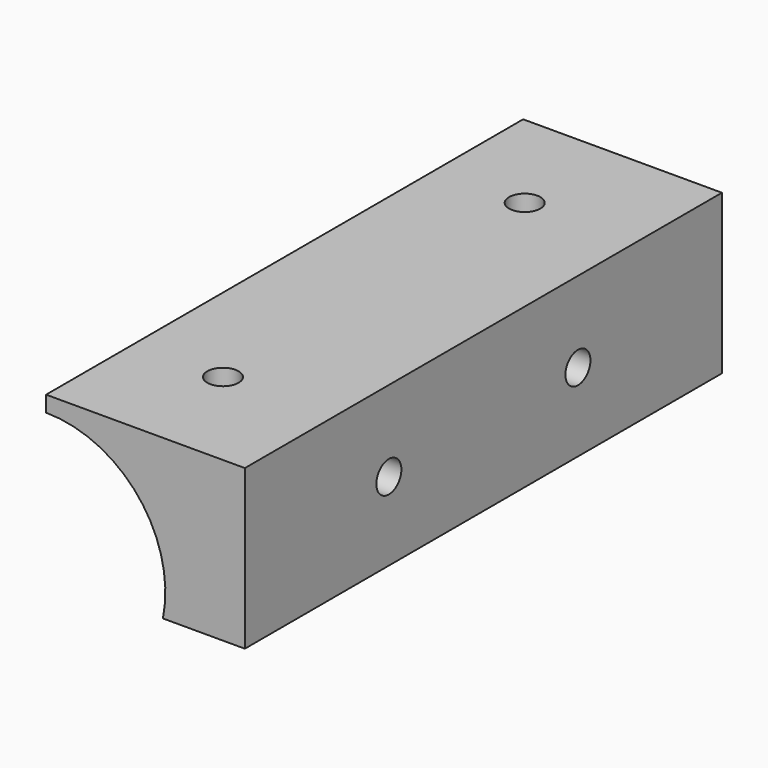
from build123d import *

# Parameters (mm, degrees)
F0_W     = 25.4
F0_H     = 20.32
F1_DEPTH = 76.2
F2_R     = 15.24
F3_DEPTH = 76.2
F4_R     = 2
F5_DEPTH = 25
F6_R     = 3
F7_DEPTH = 16.5
F8_R     = 2
F9_DEPTH = 25


with BuildPart() as f1:
    # F0 (on Front) → F1 (new body)
    with BuildSketch(Plane.XZ):
        with Locations((12.7, 10.16)):
            Rectangle(F0_W, F0_H)
    extrude(amount=F1_DEPTH)

    # F2 (on face) → F3 (cut)
    with BuildSketch(Plane.XZ.offset(76.2)):
        with Locations((0, 3.048)):
            Circle(F2_R)
    extrude(amount=-F3_DEPTH, mode=Mode.SUBTRACT)

    # F4 (on face) → F5 (cut)
    with BuildSketch(Plane.XY.offset(20.32)):
        with Locations((11.4, -14)):
            Circle(F4_R)
        with Locations((11.4, -62.2)):
            Circle(F4_R)
    extrude(amount=-F5_DEPTH, mode=Mode.SUBTRACT)

    # F6 (on Top) → F7 (cut)
    with BuildSketch(Plane.XY):
        with Locations((11.5, -14)):
            Circle(F6_R)
        with Locations((11.5, -62.20332)):
            Circle(F6_R)
    extrude(amount=F7_DEPTH, mode=Mode.SUBTRACT)

    # F8 (on face) → F9 (cut)
    with BuildSketch(Plane.YZ.offset(25.4)):
        with Locations((-23, 10)):
            Circle(F8_R)
        with Locations((-53.2, 10)):
            Circle(F8_R)
    extrude(amount=-F9_DEPTH, mode=Mode.SUBTRACT)


solid = f1.part
